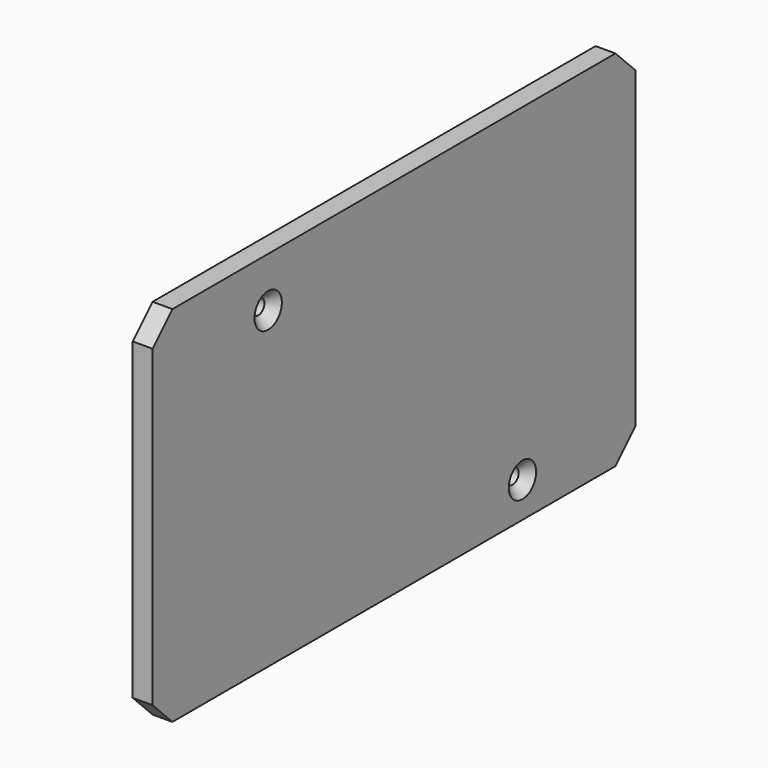
from build123d import *

# Parameters (mm, degrees)
SKETCH011_W      = 121.654072
SKETCH011_H      = 73.26893
PAD009_DEPTH     = 4
HOLE_D           = 3
HOLE_DEPTH       = 25
HOLE_CSINK_D     = 6.9
HOLE_CSINK_ANGLE = 90
CHAMFER_SIZE     = 5


with BuildPart() as part:
    # Sketch011 → Pad009 (new body)
    with BuildSketch(Plane.YZ):
        with Locations((0.298689, 17.336089)):
            Rectangle(SKETCH011_W, SKETCH011_H)
    extrude(amount=PAD009_DEPTH)

    # Hole
    with Locations(Plane.YZ.offset(4)):
        with Locations((-31.394375, 43.94352), (32.693371, -12.187573)):
            CounterSinkHole(HOLE_D / 2, HOLE_CSINK_D / 2, depth=HOLE_DEPTH, counter_sink_angle=HOLE_CSINK_ANGLE)

    # Chamfer
    chamfer_edges = [part.edges().sort_by_distance(p)[0] for p in [
        (2, -60.528347, 53.970554),
        (2, 61.125725, 53.970554),
        (2, -60.528347, -19.298376),
        (2, 61.125725, -19.298376),
    ]]
    chamfer(chamfer_edges, length=CHAMFER_SIZE)


with BuildPart() as part_1:
    # Body004 placement: moved
    add(part.part.moved(Location((32, 0, 0))))


solid = part_1.part
